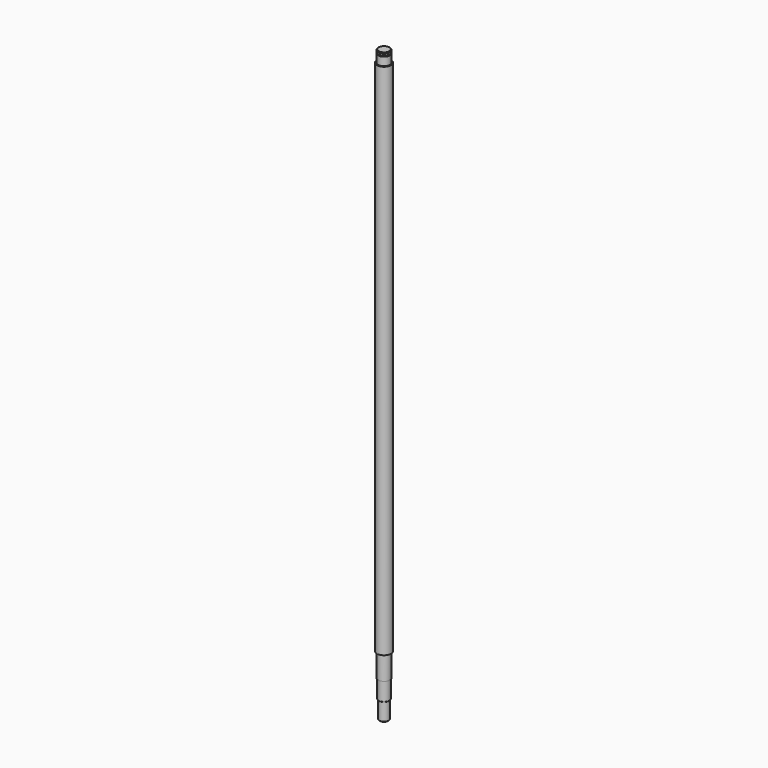
from build123d import *


with BuildPart() as f1:
    # F0 (on Front) → F1 (revolve)
    with BuildSketch(Plane.XZ):
        Polygon((0, 500), (0, 0), (3.5, 0), (4, 0.5), (4, 15), (4.5, 15.5), (4.5, 31), (5, 31), (5, 51), (6, 51), (6, 490), (5, 490), (5, 497), (3.8, 497), (3.8, 497.9), (5, 497.9), (5, 499.5), (4.5, 500), align=None)
    revolve(axis=Axis((0, 0, 142.919585), (0, 0, 1)))


solid = f1.part
